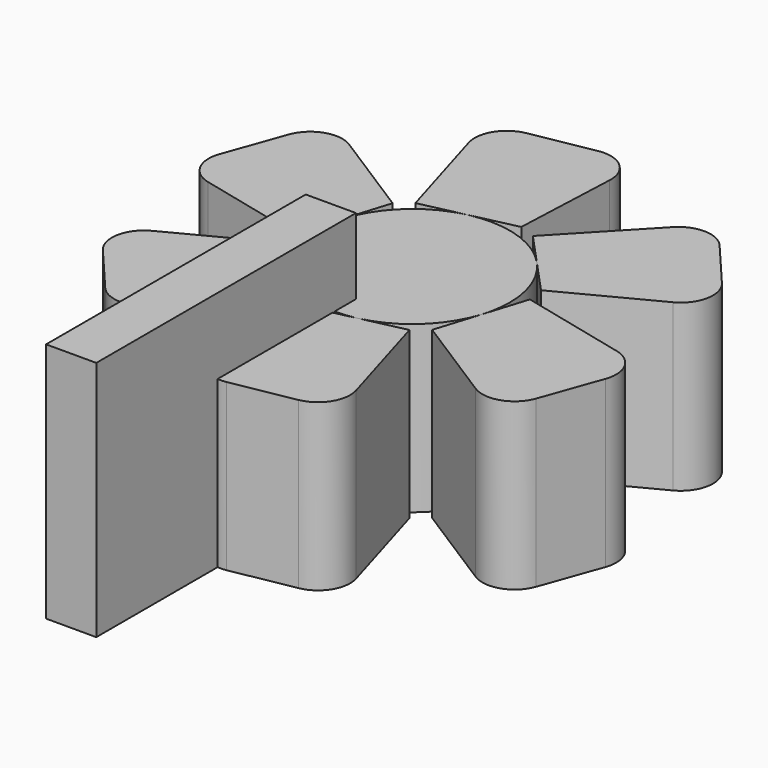
from build123d import *

# Parameters (mm, degrees)
F1_W     = 9.929298
F1_H     = 64.180681
F2_DEPTH = 47.752
F3_DEPTH = 32.766


with BuildPart() as f2:
    # F1 (on Top) → F2 (new body)
    with BuildSketch(Plane.XY):
        with Locations((-4.964649, -46.048919)):
            Rectangle(F1_W, F1_H)
    extrude(amount=F2_DEPTH)


with BuildPart() as f3:
    # F0 (on Top) → F3 (new body)
    with BuildSketch(Plane.XY):
        with BuildLine():
            Line((-21.039762, -2.739777), (-18.385055, 5.749347))
            Line((-18.385055, 5.749347), (-15.60932, 14.625489))
            Line((-15.60932, 14.625489), (-33.117157, 25.764367))
            ThreePointArc((-33.117157, 25.764367), (-38.584054, 26.413936), (-42.503823, 22.548148))
            Line((-42.503823, 22.548148), (-46.759154, 10.668598))
            ThreePointArc((-46.759154, 10.668598), (-46.366889, 5.50703), (-42.262686, 2.352482))
            Line((-42.262686, 2.352482), (-21.039762, -2.739777))
        make_face()
        with BuildLine():
            Line((-12.892597, 16.85108), (-4.213446, 18.796598))
            Line((-4.213446, 18.796598), (4.861385, 20.830812))
            Line((4.861385, 20.830812), (5.754017, 41.562483))
            ThreePointArc((5.754017, 41.562483), (3.583112, 46.621739), (-1.724643, 48.083464))
            Line((-1.724643, 48.083464), (-14.1403, 45.828914))
            ThreePointArc((-14.1403, 45.828914), (-18.414216, 42.908419), (-19.094033, 37.776801))
            Line((-19.094033, 37.776801), (-12.892597, 16.85108))
        make_face()
        with BuildLine():
            Line((8.147164, 19.590857), (14.171609, 13.04725))
            Line((14.171609, 13.04725), (20.470705, 6.205324))
            Line((20.470705, 6.205324), (38.871175, 15.798116))
            ThreePointArc((38.871175, 15.798116), (42.167167, 20.207803), (40.77918, 25.535316))
            Line((40.77918, 25.535316), (32.618854, 35.160316))
            ThreePointArc((32.618854, 35.160316), (27.952672, 37.401388), (23.168653, 35.424318))
            Line((23.168653, 35.424318), (8.147164, 19.590857))
        make_face()
        with BuildLine():
            Line((21.039762, 2.739777), (18.385055, -5.749347))
            Line((18.385055, -5.749347), (15.60932, -14.625489))
            Line((15.60932, -14.625489), (33.117157, -25.764367))
            ThreePointArc((33.117157, -25.764367), (38.584054, -26.413936), (42.503823, -22.548148))
            Line((42.503823, -22.548148), (46.759154, -10.668598))
            ThreePointArc((46.759154, -10.668598), (46.366889, -5.50703), (42.262686, -2.352482))
            Line((42.262686, -2.352482), (21.039762, 2.739777))
        make_face()
        with BuildLine():
            Line((12.892597, -16.85108), (4.213446, -18.796598))
            Line((4.213446, -18.796598), (-4.861385, -20.830812))
            Line((-4.861385, -20.830812), (-5.754017, -41.562483))
            ThreePointArc((-5.754017, -41.562483), (-3.583112, -46.621739), (1.724643, -48.083464))
            Line((1.724643, -48.083464), (14.1403, -45.828914))
            ThreePointArc((14.1403, -45.828914), (18.414216, -42.908419), (19.094033, -37.776801))
            Line((19.094033, -37.776801), (12.892597, -16.85108))
        make_face()
        with BuildLine():
            Line((-8.147164, -19.590857), (-14.171609, -13.04725))
            Line((-14.171609, -13.04725), (-20.470705, -6.205324))
            Line((-20.470705, -6.205324), (-38.871175, -15.798116))
            ThreePointArc((-38.871175, -15.798116), (-42.167167, -20.207803), (-40.77918, -25.535316))
            Line((-40.77918, -25.535316), (-32.618854, -35.160316))
            ThreePointArc((-32.618854, -35.160316), (-27.952672, -37.401388), (-23.168653, -35.424318))
            Line((-23.168653, -35.424318), (-8.147164, -19.590857))
        make_face()
        with BuildLine():
            ThreePointArc((18.385055, -5.749347), (19.042289, -2.908001), (19.263053, 0))
            ThreePointArc((19.263053, 0), (17.945106, 7.002741), (14.171609, 13.04725))
            ThreePointArc((14.171609, 13.04725), (5.749348, 18.385054), (-4.213446, 18.796598))
            ThreePointArc((-4.213446, 18.796598), (-13.047251, 14.171608), (-18.385055, 5.749347))
            ThreePointArc((-18.385055, 5.749347), (-18.796598, -4.213446), (-14.171609, -13.04725))
            ThreePointArc((-14.171609, -13.04725), (-5.749348, -18.385054), (4.213446, -18.796598))
            ThreePointArc((4.213446, -18.796598), (13.047251, -14.171608), (18.385055, -5.749347))
        make_face()
    extrude(amount=F3_DEPTH)


solid = Compound([f2.part, f3.part])
